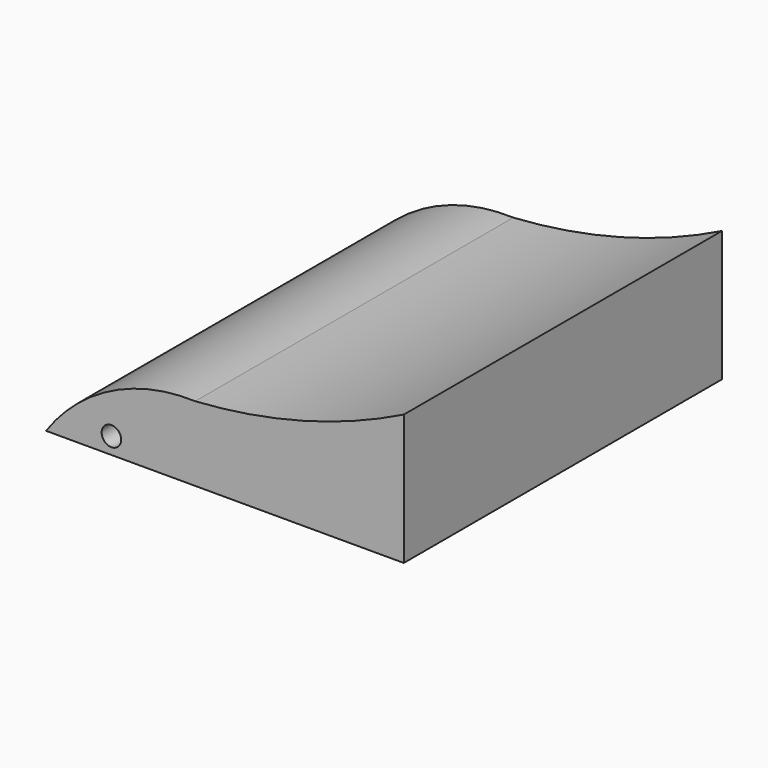
from build123d import *

# Parameters (mm, degrees)
F0_R     = 2.49938
F1_DEPTH = 101.6


with BuildPart() as f1:
    # F0 (on Front) → F1 (new body)
    with BuildSketch(Plane.XZ):
        with BuildLine():
            ThreePointArc((-24.424371, 19.05), (-45.903919, 14.384096), (-62.524371, 0))
            Line((-62.524371, 0), (-24.424371, 0))
            Line((-24.424371, 0), (28.877782, 0))
            Line((28.877782, 0), (28.877782, 33.381656))
            ThreePointArc((28.877782, 33.381656), (2.940295, 23.561851), (-24.424371, 19.05))
        make_face()
        with Locations((-45.833543, 4.23894)):
            Circle(F0_R, mode=Mode.SUBTRACT)
    extrude(amount=F1_DEPTH)


solid = f1.part
